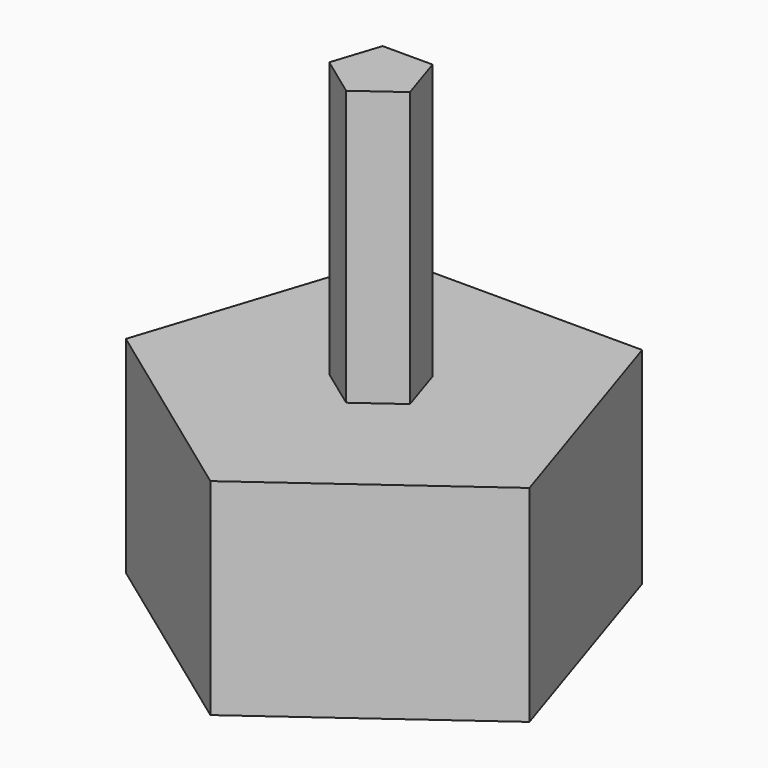
from build123d import *

# Parameters (mm, degrees)
F1_DEPTH = 30
F3_DEPTH = 40


with BuildPart() as f1:
    # F0 (on Top) → F1 (new body)
    with BuildSketch(Plane.XY):
        Polygon((18.163563, 25), (-18.163563, 25), (-29.389263, -9.54915), (0, -30.901699), (29.389263, -9.54915), align=None)
    extrude(amount=F1_DEPTH)

    # F2 (on face) → F3 (join)
    with BuildSketch(Plane.XY.offset(30)):
        Polygon((-5.877853, -1.90983), (0, -6.18034), (5.877853, -1.90983), (3.632713, 5), (-3.632713, 5), align=None)
    extrude(amount=F3_DEPTH)


solid = f1.part
